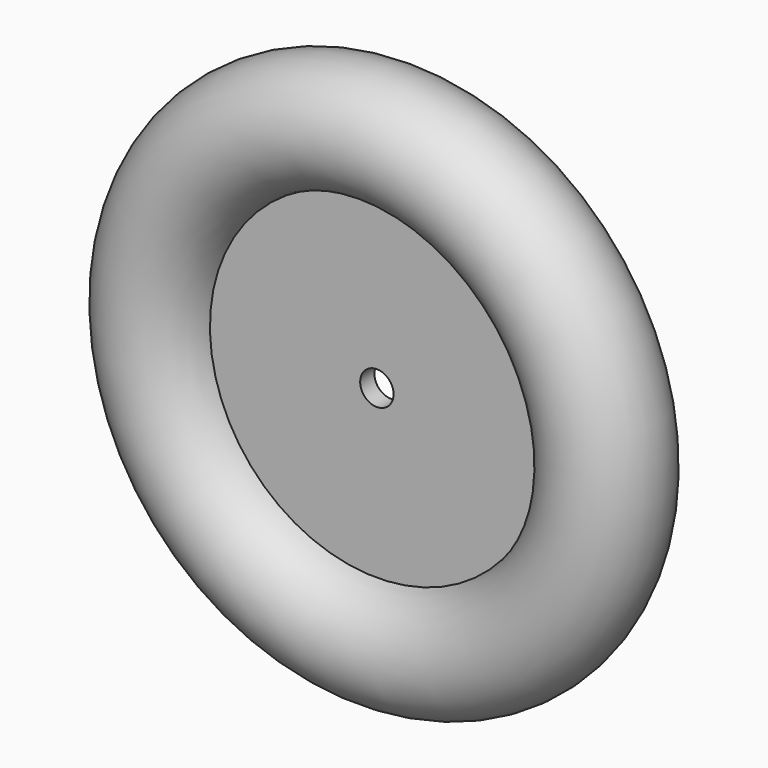
from build123d import *


with BuildPart() as f1:
    # F0 (on Right) → F1 (revolve)
    with BuildSketch(Plane.YZ):
        with BuildLine():
            Line((-4, 75), (-4, 7.5))
            Line((-4, 7.5), (4, 7.5))
            Line((4, 7.5), (4, 75))
            ThreePointArc((4, 75), (0, 125.317978), (-4, 75))
        make_face()
    revolve(axis=Axis((0, 1.844836, 0), (0, 1, 0)))


solid = f1.part
